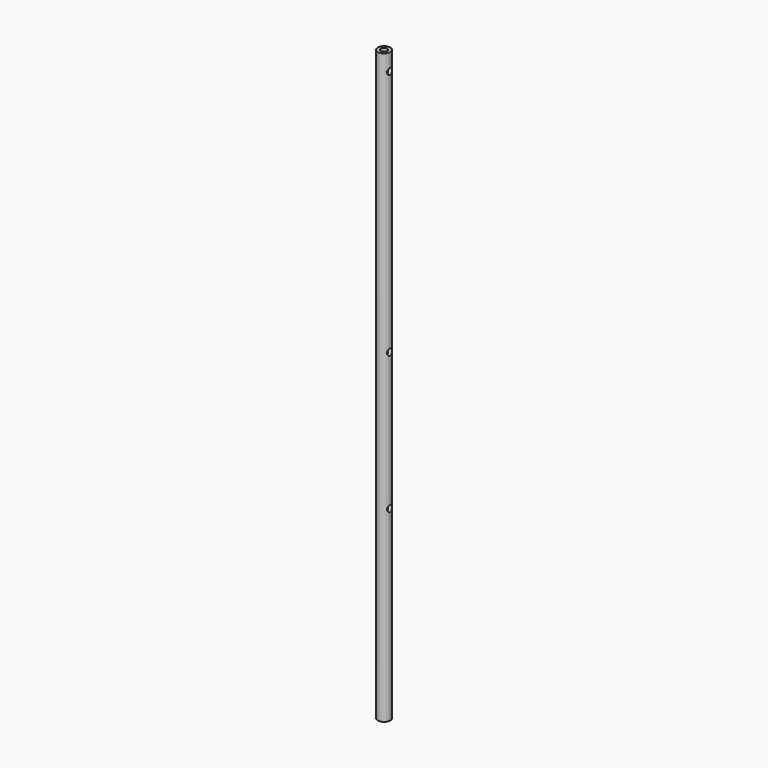
from build123d import *

# Parameters (mm, degrees)
SKETCH_R        = 19.5
PAD_DEPTH       = 1850
SKETCH001_R     = 10
POCKET_DEPTH    = 1850
SKETCH002_R     = 10
POCKET001_DEPTH = 25


with BuildPart() as part:
    # Sketch → Pad (new body)
    with BuildSketch(Plane.XY):
        Circle(SKETCH_R)
    extrude(amount=PAD_DEPTH)

    # Sketch001 (on Face3 of Pad) → Pocket (cut)
    with BuildSketch(Plane.XY.offset(1850)):
        Circle(SKETCH001_R)
    extrude(amount=-POCKET_DEPTH, mode=Mode.SUBTRACT)

    # Sketch002 → Pocket001 (cut, symmetric)
    with BuildSketch(Plane.YZ):
        with Locations((0, 1020)):
            Circle(SKETCH002_R)
        with Locations((0, 586.936)):
            Circle(SKETCH002_R)
        with Locations((0, 1796.5)):
            Circle(SKETCH002_R)
    extrude(amount=POCKET001_DEPTH, both=True, mode=Mode.SUBTRACT)


solid = part.part
